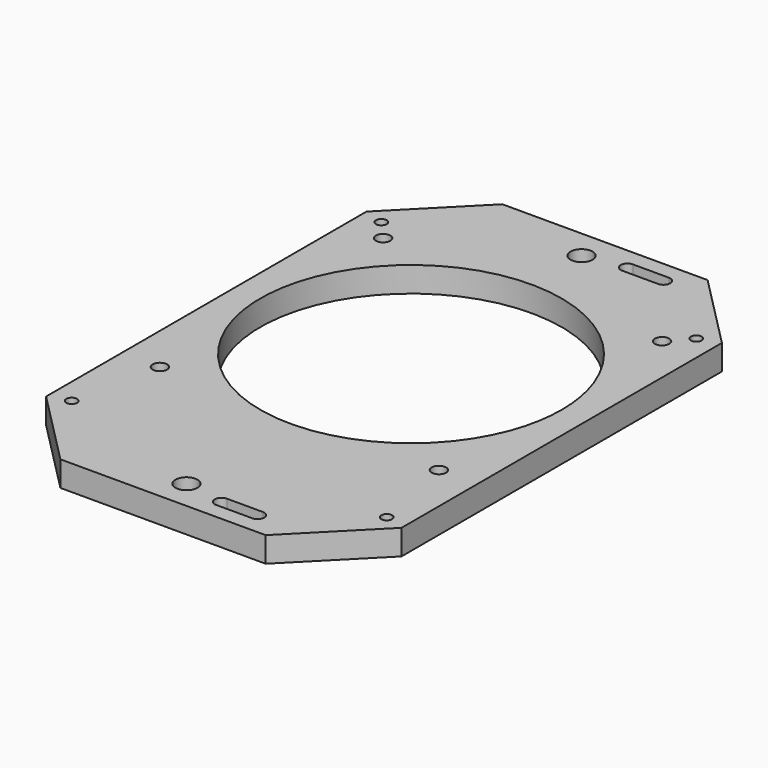
from build123d import *

# Parameters (mm, degrees)
F0_R     = 1.2
F0_R_2   = 2.05
F1_DEPTH = 5.6
F2_R     = 1.6
F2_R_2   = 2.45
F3_DEPTH = 25


with BuildPart() as f1:
    # F0 (on Top) → F1 (new body)
    with BuildSketch(Plane.XY):
        with BuildLine():
            Line((31.5, 25.5), (39.5, 25.5))
            Line((39.5, 25.5), (39.5, 44.5))
            Line((39.5, 44.5), (22.808842361, 61.3844171166))
            Line((22.808842361, 61.3844171166), (0, 61.3844171166))
            Line((0, 61.3844171166), (-22.808842361, 61.3844171166))
            Line((-22.808842361, 61.3844171166), (-39.5, 44.5))
            Line((-39.5, 44.5), (-39.5, 25.5))
            Line((-39.5, 25.5), (-31.5, 25.5))
            Line((-31.5, 25.5), (-31.5, 18.901754251))
            ThreePointArc((-31.5, 18.901754251), (0, 41), (31.5, 18.901754251))
            Line((31.5, 18.901754251), (31.5, 25.5))
        make_face()
        with Locations((-35, 43)):
            Circle(F0_R, mode=Mode.SUBTRACT)
        with Locations((0, 54.8844171166)):
            Circle(F0_R_2, mode=Mode.SUBTRACT)
        with Locations((35, 43)):
            Circle(F0_R, mode=Mode.SUBTRACT)
        with BuildLine():
            Line((22.808842361, -61.3844171166), (39.5, -44.5))
            Line((39.5, -44.5), (39.5, -9.5))
            Line((39.5, -9.5), (31.5, -9.5))
            Line((31.5, -9.5), (31.5, -3.901754251))
            ThreePointArc((31.5, -3.901754251), (0, -26), (-31.5, -3.901754251))
            Line((-31.5, -3.901754251), (-31.5, -9.5))
            Line((-31.5, -9.5), (-39.5, -9.5))
            Line((-39.5, -9.5), (-39.5, -44.5))
            Line((-39.5, -44.5), (-22.808842361, -61.3844171166))
            Line((-22.808842361, -61.3844171166), (0, -61.3844171166))
            Line((0, -61.3844171166), (22.808842361, -61.3844171166))
        make_face()
        with Locations((-35, -43)):
            Circle(F0_R, mode=Mode.SUBTRACT)
        with Locations((0, -54.8844171166)):
            Circle(F0_R_2, mode=Mode.SUBTRACT)
        with Locations((35, -43)):
            Circle(F0_R, mode=Mode.SUBTRACT)
        with BuildLine():
            Line((-31.5, -9.5), (-31.5, -3.901754251))
            ThreePointArc((-31.5, -3.901754251), (-33.5, 7.5), (-31.5, 18.901754251))
            Line((-31.5, 18.901754251), (-31.5, 25.5))
            Line((-31.5, 25.5), (-39.5, 25.5))
            Line((-39.5, 25.5), (-39.5, -9.5))
            Line((-39.5, -9.5), (-31.5, -9.5))
        make_face()
        with BuildLine():
            Line((31.5, -9.5), (39.5, -9.5))
            Line((39.5, -9.5), (39.5, 25.5))
            Line((39.5, 25.5), (31.5, 25.5))
            Line((31.5, 25.5), (31.5, 18.901754251))
            ThreePointArc((31.5, 18.901754251), (32.9962119038, 13.2879184514), (33.5, 7.5))
            ThreePointArc((33.5, 7.5), (32.9962119038, 1.7120815486), (31.5, -3.901754251))
            Line((31.5, -3.901754251), (31.5, -9.5))
        make_face()
    extrude(amount=F1_DEPTH)

    # F2 (on face) → F3 (cut)
    with BuildSketch(Plane.XY.offset(5.6)):
        with Locations((-31, 38.5)):
            Circle(F2_R)
        with Locations((31, 38.5)):
            Circle(F2_R)
        with Locations((-31, -23.5)):
            Circle(F2_R)
        with Locations((31, -23.5)):
            Circle(F2_R)
        with Locations((0, 54.8844171166)):
            Circle(F2_R_2)
        with Locations((0, -54.8844171166)):
            Circle(F2_R_2)
        with BuildLine():
            ThreePointArc((10.5, 56.3844171166), (10.0606601718, 57.4450772884), (9, 57.8844171166))
            Line((9, 57.8844171166), (9, 54.8844171166))
            ThreePointArc((9, 54.8844171166), (10.0606601718, 55.3237569449), (10.5, 56.3844171166))
        make_face()
        with BuildLine():
            Line((17, 57.8844171166), (9, 57.8844171166))
            ThreePointArc((9, 57.8844171166), (10.0606601718, 57.4450772884), (10.5, 56.3844171166))
            ThreePointArc((10.5, 56.3844171166), (10.0606601718, 55.3237569449), (9, 54.8844171166))
            Line((9, 54.8844171166), (17, 54.8844171166))
            ThreePointArc((17, 54.8844171166), (15.5, 56.3844171166), (17, 57.8844171166))
        make_face()
        with BuildLine():
            Line((9, 54.8844171166), (9, 57.8844171166))
            ThreePointArc((9, 57.8844171166), (7.5, 56.3844171166), (9, 54.8844171166))
        make_face()
        with BuildLine():
            ThreePointArc((18.5, 56.3844171166), (18.0606601718, 57.4450772884), (17, 57.8844171166))
            Line((17, 57.8844171166), (17, 54.8844171166))
            ThreePointArc((17, 54.8844171166), (18.0606601718, 55.3237569449), (18.5, 56.3844171166))
        make_face()
        with BuildLine():
            Line((17, 54.8844171166), (17, 57.8844171166))
            ThreePointArc((17, 57.8844171166), (15.5, 56.3844171166), (17, 54.8844171166))
        make_face()
        with BuildLine():
            ThreePointArc((9, -57.8844171166), (10.0606601718, -57.4450772884), (10.5, -56.3844171166))
            ThreePointArc((10.5, -56.3844171166), (10.0606601718, -55.3237569449), (9, -54.8844171166))
            ThreePointArc((9, -54.8844171166), (7.5, -56.3844171166), (9, -57.8844171166))
        make_face()
        with BuildLine():
            ThreePointArc((9, -54.8844171166), (10.0606601718, -55.3237569449), (10.5, -56.3844171166))
            ThreePointArc((10.5, -56.3844171166), (10.0606601718, -57.4450772884), (9, -57.8844171166))
            Line((9, -57.8844171166), (17, -57.8844171166))
            ThreePointArc((17, -57.8844171166), (15.5, -56.3844171166), (17, -54.8844171166))
            Line((17, -54.8844171166), (9, -54.8844171166))
        make_face()
        with BuildLine():
            ThreePointArc((18.5, -56.3844171166), (18.0606601718, -55.3237569449), (17, -54.8844171166))
            ThreePointArc((17, -54.8844171166), (15.5, -56.3844171166), (17, -57.8844171166))
            ThreePointArc((17, -57.8844171166), (18.0606601718, -57.4450772884), (18.5, -56.3844171166))
        make_face()
    extrude(amount=-F3_DEPTH, mode=Mode.SUBTRACT)


solid = f1.part
